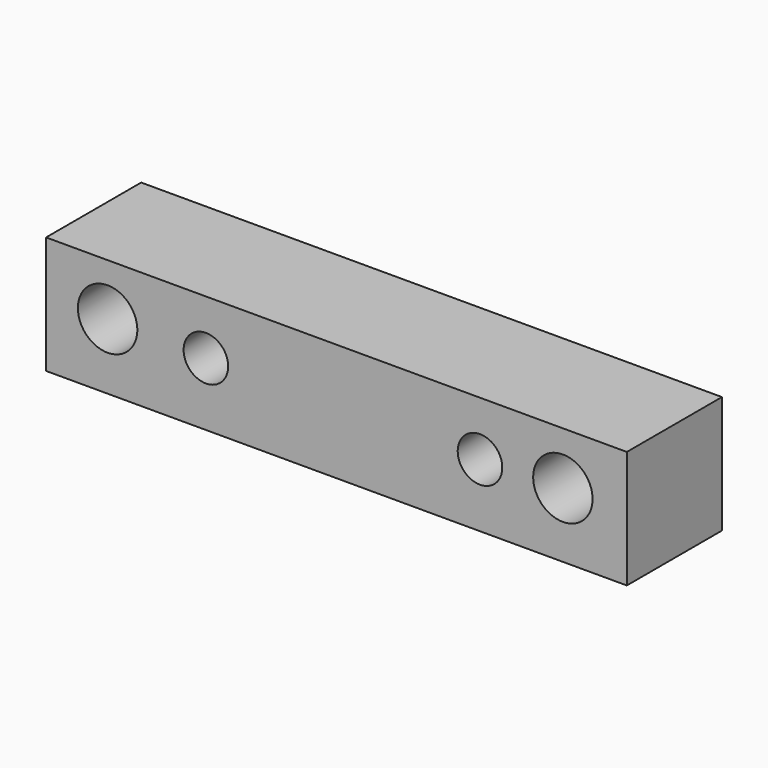
from build123d import *

# Parameters (mm, degrees)
F0_W     = 99.2823541164
F0_H     = 20.0983081013
F1_DEPTH = 20.32
F3_D     = 10.16
F5_D     = 10.16
F7_D     = 7.62


with BuildPart() as f1:
    # F0 (on Front) → F1 (new body)
    with BuildSketch(Plane.XZ):
        with Locations((49.6411770582, -10.0491540506)):
            Rectangle(F0_W, F0_H)
    extrude(amount=F1_DEPTH)

    # F3 (through all)
    with Locations(Plane(origin=(0, 0, 0), x_dir=(1, 0, 0), z_dir=(0, 1, 0))):
        with Locations((10.5173690245, 8.8591091335)):
            Hole(F3_D / 2)

    # F5 (through all)
    with Locations(Plane.XZ.offset(20.32)):
        with Locations((88.3474946022, -9.0083088726)):
            Hole(F5_D / 2)

    # F7 (through all)
    with Locations(Plane.XZ.offset(20.32)):
        with Locations((27.3221246898, -9.2888381332), (74.1779506207, -9.2888381332)):
            Hole(F7_D / 2)


solid = f1.part
